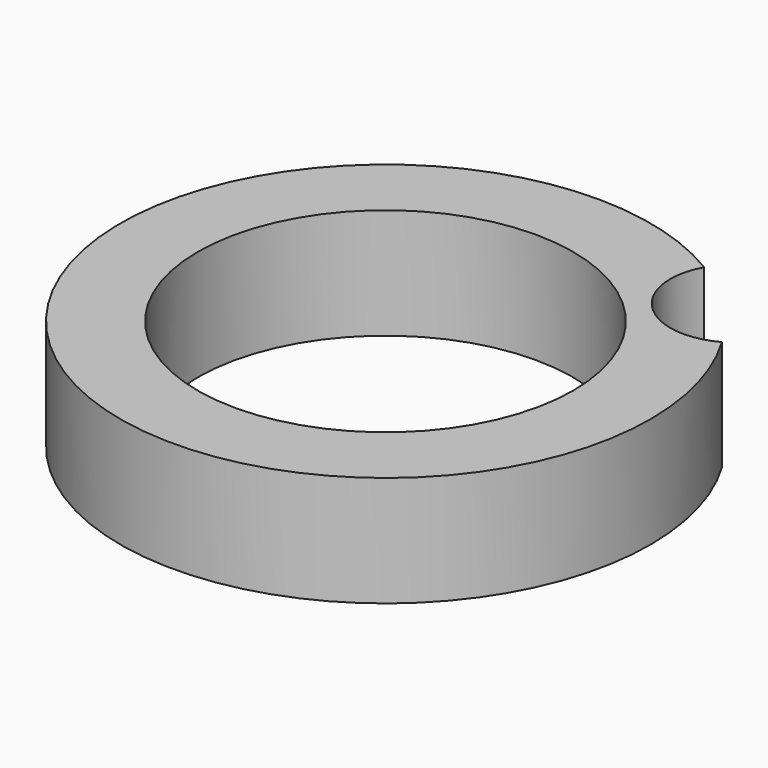
from build123d import *

# Parameters (mm, degrees)
SKETCH003_R       = 24
SKETCH003_R_2     = 17
PAD_DEPTH         = 10
SKETCH005_R       = 6
POCKET_DEPTH      = 10.001
POCKET_DEPTH_BACK = 0.001


with BuildPart() as part:
    # Sketch003 → Pad (new body)
    with BuildSketch(Plane.XY):
        Circle(SKETCH003_R)
        Circle(SKETCH003_R_2, mode=Mode.SUBTRACT)
    extrude(amount=-PAD_DEPTH)

    # Sketch005 → Pocket (cut, two sides)
    with BuildSketch(Plane.XY) as pocket_sk:
        with Locations((17.681431, 17.632393)):
            Circle(SKETCH005_R)
    extrude(amount=-POCKET_DEPTH, mode=Mode.SUBTRACT)
    extrude(pocket_sk.sketch, amount=POCKET_DEPTH_BACK, mode=Mode.SUBTRACT)


solid = part.part
